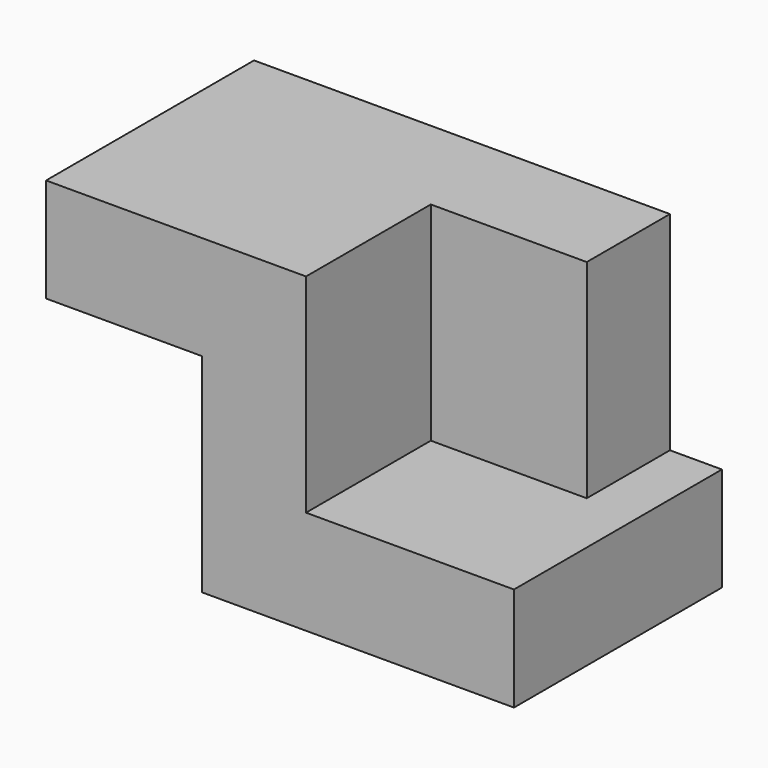
from build123d import *

# Parameters (mm, degrees)
F0_W     = 76.2
F0_H     = 63.5
F1_DEPTH = 25.4
F3_DEPTH = 50.8
F4_W     = 63.5
F4_H     = 25.4
F5_DEPTH = 38.1


with BuildPart() as f1:
    # F0 (on Top) → F1 (new body)
    with BuildSketch(Plane.XY):
        with Locations((6.275294, -1.517183)):
            Rectangle(F0_W, F0_H)
    extrude(amount=F1_DEPTH)

    # F2 (on face) → F3 (join)
    with BuildSketch(Plane.XY.offset(25.4)):
        Polygon((-31.824706, 30.232817), (-31.824706, -33.267183), (-6.424706, -33.267183), (-6.424706, 4.832817), (31.675294, 4.832817), (31.675294, 30.232817), align=None)
    extrude(amount=F3_DEPTH)

    # F4 (on face) → F5 (join)
    with BuildSketch(Plane(origin=(-31.824706, 0, 0), x_dir=(0, -1, 0), z_dir=(-1, 0, 0))):
        with Locations((1.517183, 63.5)):
            Rectangle(F4_W, F4_H)
    extrude(amount=F5_DEPTH)


solid = f1.part
